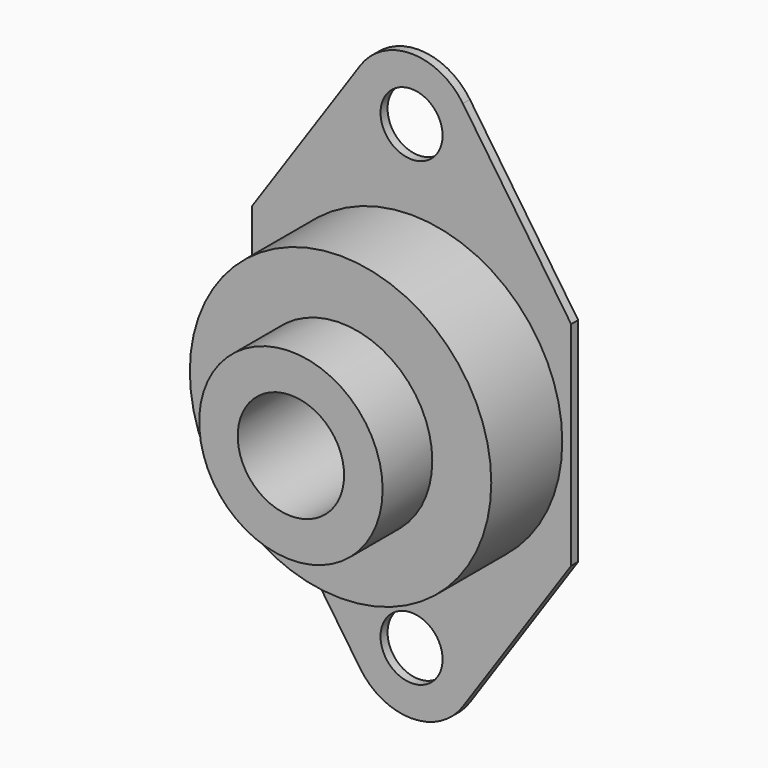
from build123d import *

# Parameters (mm, degrees)
F0_R     = 5.55625
F1_DEPTH = 1.5748
F2_R     = 26.9875
F3_DEPTH = 15.8877
F4_R     = 16.4211
F5_DEPTH = 11.1125
F6_R     = 9.525
F7_DEPTH = 28.575


with BuildPart() as f1:
    # F0 (on Front) → F1 (new body)
    with BuildSketch(Plane.XZ):
        with BuildLine():
            Line((28.575, 19.05), (9.185667, 47.528893))
            ThreePointArc((9.185667, 47.528893), (0, 52.3875), (-9.185667, 47.528893))
            Line((-9.185667, 47.528893), (-28.575, 19.05))
            Line((-28.575, 19.05), (-28.575, -19.05))
            Line((-28.575, -19.05), (-9.185667, -47.528893))
            ThreePointArc((-9.185667, -47.528893), (0, -52.3875), (9.185667, -47.528893))
            Line((9.185667, -47.528893), (28.575, -19.05))
            Line((28.575, -19.05), (28.575, 19.05))
        make_face()
        with Locations((0, -41.275)):
            Circle(F0_R, mode=Mode.SUBTRACT)
        with Locations((0, 41.275)):
            Circle(F0_R, mode=Mode.SUBTRACT)
    extrude(amount=F1_DEPTH)

    # F2 (on face) → F3 (join)
    with BuildSketch(Plane.XZ.offset(1.5748)):
        Circle(F2_R)
    extrude(amount=F3_DEPTH)

    # F4 (on face) → F5 (join)
    with BuildSketch(Plane.XZ.offset(17.4625)):
        Circle(F4_R)
    extrude(amount=F5_DEPTH)

    # F6 (on face) → F7 (cut, through all)
    with BuildSketch(Plane.XZ.offset(28.575)):
        Circle(F6_R)
    extrude(amount=-F7_DEPTH, mode=Mode.SUBTRACT)


solid = f1.part
